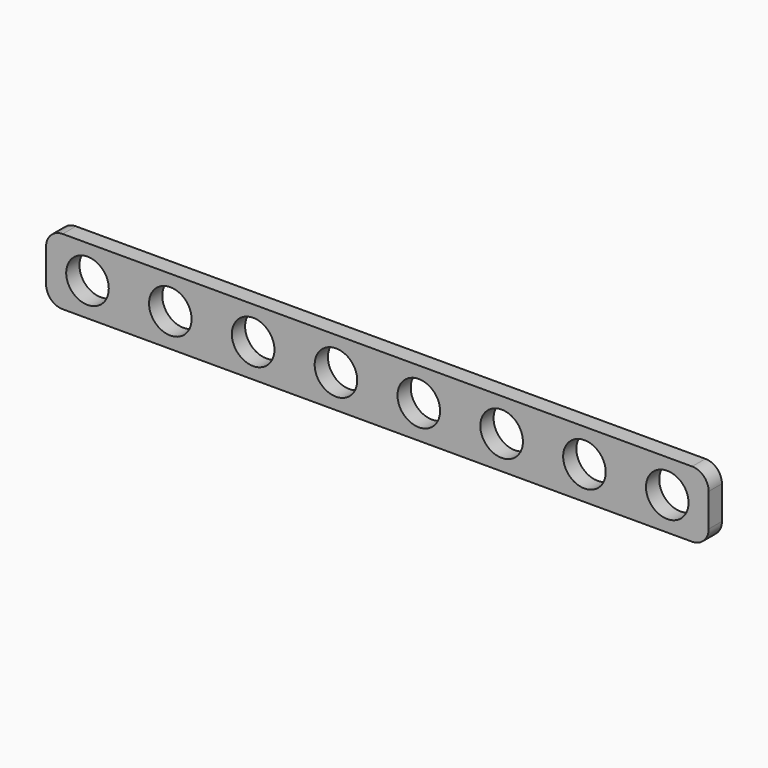
from build123d import *

# Parameters (mm, degrees)
F0_R     = 6.528915
F1_DEPTH = 5.08


with BuildPart() as f1:
    # F0 (on Front) → F1 (new body)
    with BuildSketch(Plane.XZ):
        with BuildLine():
            ThreePointArc((0, 5.08), (1.487898, 1.487898), (5.08, 0))
            Line((5.08, 0), (198.12, 0))
            ThreePointArc((198.12, 0), (201.712102, 1.487898), (203.2, 5.08))
            Line((203.2, 5.08), (203.2, 15.24))
            ThreePointArc((203.2, 15.24), (201.712102, 18.832102), (198.12, 20.32))
            Line((198.12, 20.32), (5.08, 20.32))
            ThreePointArc((5.08, 20.32), (1.487898, 18.832102), (0, 15.24))
            Line((0, 15.24), (0, 5.08))
        make_face()
        with Locations((12.7, 10.16)):
            Circle(F0_R, mode=Mode.SUBTRACT)
        with Locations((38.1, 10.16)):
            Circle(F0_R, mode=Mode.SUBTRACT)
        with Locations((63.5, 10.16)):
            Circle(F0_R, mode=Mode.SUBTRACT)
        with Locations((88.9, 10.16)):
            Circle(F0_R, mode=Mode.SUBTRACT)
        with Locations((114.3, 10.16)):
            Circle(F0_R, mode=Mode.SUBTRACT)
        with Locations((139.7, 10.16)):
            Circle(F0_R, mode=Mode.SUBTRACT)
        with Locations((165.1, 10.16)):
            Circle(F0_R, mode=Mode.SUBTRACT)
        with Locations((190.5, 10.16)):
            Circle(F0_R, mode=Mode.SUBTRACT)
    extrude(amount=F1_DEPTH)


solid = f1.part
